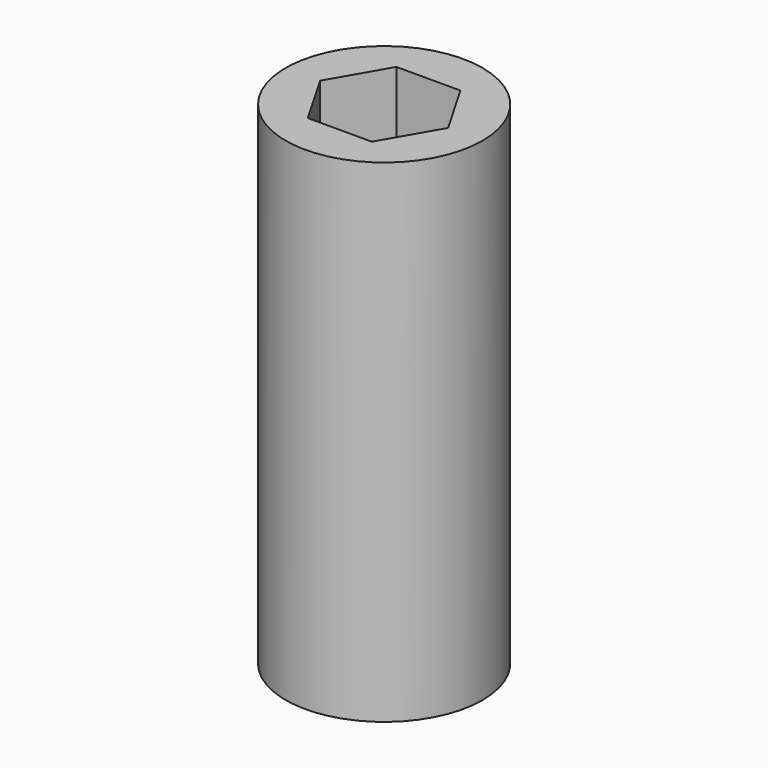
from build123d import *

# Parameters (mm, degrees)
F0_R     = 6
F1_DEPTH = 15
F3_DEPTH = 12
F5_DEPTH = 18.5


with BuildPart() as f1:
    # F0 (on Top) → F1 (new body, symmetric)
    with BuildSketch(Plane.XY):
        Circle(F0_R)
    extrude(amount=F1_DEPTH, both=True)

    # F2 (on face) → F3 (cut)
    with BuildSketch(Plane(origin=(0, 0, -15), x_dir=(1, 0, 0), z_dir=(0, 0, -1))):
        with BuildLine():
            Line((-1.9798989873, -2.45), (1.9798989873, -2.45))
            ThreePointArc((1.9798989873, -2.45), (0, 3.15), (-1.9798989873, -2.45))
        make_face()
    extrude(amount=-F3_DEPTH, mode=Mode.SUBTRACT)

    # F4 (on face) → F5 (cut)
    with BuildSketch(Plane.XY.offset(15)):
        Polygon((-1.9485571585, -3.375), (1.9485571585, -3.375), (3.897114317, 0), (1.9485571585, 3.375), (-1.9485571585, 3.375), (-3.897114317, 0), align=None)
    extrude(amount=-F5_DEPTH, mode=Mode.SUBTRACT)


solid = f1.part
